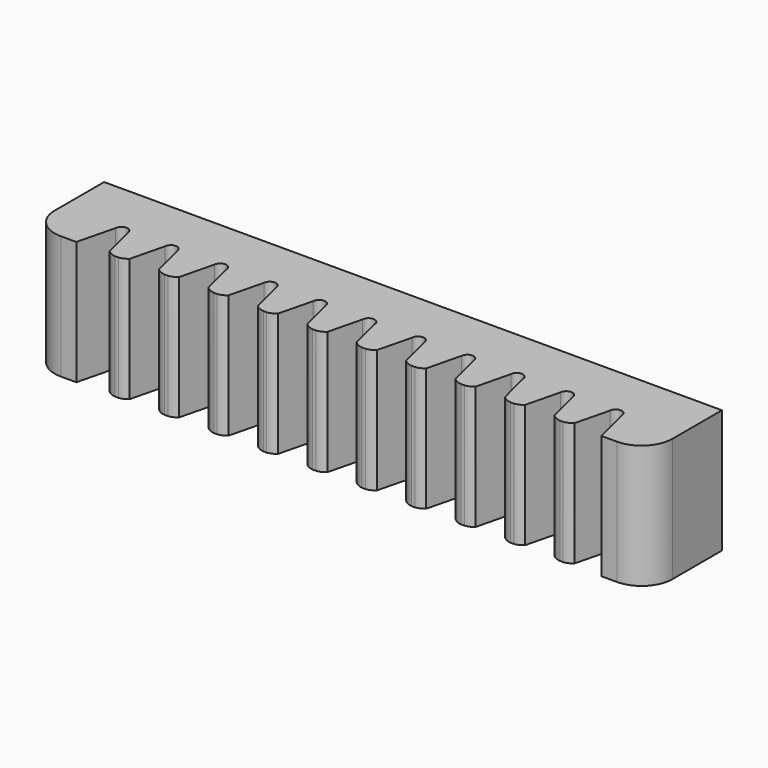
from build123d import *

# Parameters (mm, degrees)
F0_W     = 100
F0_H     = 20
F1_DEPTH = 15
F3_DEPTH = 20
F4_R     = 5


with BuildPart() as f1:
    # F0 (on Front) → F1 (new body)
    with BuildSketch(Plane.XZ):
        Rectangle(F0_W, F0_H)
    extrude(amount=F1_DEPTH)

    # F2 (on face) → F3 (cut, through all)
    with BuildSketch(Plane.XY.offset(10)):
        with BuildLine():
            Line((-37.5, -15), (-37.673208, -14.301388))
            Line((-37.673208, -14.301388), (-39.001597, -8.943505))
            ThreePointArc((-39.001597, -8.943505), (-40, -8), (-40.998403, -8.943505))
            Line((-40.998403, -8.943505), (-42.5, -15))
            Line((-42.5, -15), (-37.5, -15))
        make_face()
        with BuildLine():
            Line((-29.5, -15), (-29.673208, -14.301388))
            Line((-29.673208, -14.301388), (-31.001597, -8.943505))
            ThreePointArc((-31.001597, -8.943505), (-32, -8), (-32.998403, -8.943505))
            Line((-32.998403, -8.943505), (-34.348484, -14.388879))
            Line((-34.348484, -14.388879), (-34.5, -15))
            Line((-34.5, -15), (-29.5, -15))
        make_face()
        with BuildLine():
            Line((-21.5, -15), (-21.673208, -14.301388))
            Line((-21.673208, -14.301388), (-23.001597, -8.943505))
            ThreePointArc((-23.001597, -8.943505), (-24, -8), (-24.998403, -8.943505))
            Line((-24.998403, -8.943505), (-26.348484, -14.388879))
            Line((-26.348484, -14.388879), (-26.5, -15))
            Line((-26.5, -15), (-21.5, -15))
        make_face()
        with BuildLine():
            Line((-13.5, -15), (-13.673208, -14.301388))
            Line((-13.673208, -14.301388), (-15.001597, -8.943505))
            ThreePointArc((-15.001597, -8.943505), (-16, -8), (-16.998403, -8.943505))
            Line((-16.998403, -8.943505), (-18.348484, -14.388879))
            Line((-18.348484, -14.388879), (-18.5, -15))
            Line((-18.5, -15), (-13.5, -15))
        make_face()
        with BuildLine():
            Line((-5.5, -15), (-5.673208, -14.301388))
            Line((-5.673208, -14.301388), (-7.001597, -8.943505))
            ThreePointArc((-7.001597, -8.943505), (-8, -8), (-8.998403, -8.943505))
            Line((-8.998403, -8.943505), (-10.348484, -14.388879))
            Line((-10.348484, -14.388879), (-10.5, -15))
            Line((-10.5, -15), (-5.5, -15))
        make_face()
        with BuildLine():
            Line((2.326792, -14.301388), (0.998403, -8.943505))
            ThreePointArc((0.998403, -8.943505), (0, -8), (-0.998403, -8.943505))
            Line((-0.998403, -8.943505), (-2.348484, -14.388879))
            Line((-2.348484, -14.388879), (-2.5, -15))
            Line((-2.5, -15), (2.5, -15))
            Line((2.5, -15), (2.326792, -14.301388))
        make_face()
        with BuildLine():
            Line((7.001597, -8.943505), (5.651516, -14.388879))
            Line((5.651516, -14.388879), (5.5, -15))
            Line((5.5, -15), (10.5, -15))
            Line((10.5, -15), (10.326792, -14.301388))
            Line((10.326792, -14.301388), (8.998403, -8.943505))
            ThreePointArc((8.998403, -8.943505), (8, -8), (7.001597, -8.943505))
        make_face()
        with BuildLine():
            Line((15.001597, -8.943505), (13.651516, -14.388879))
            Line((13.651516, -14.388879), (13.5, -15))
            Line((13.5, -15), (18.5, -15))
            Line((18.5, -15), (18.326792, -14.301388))
            Line((18.326792, -14.301388), (16.998403, -8.943505))
            ThreePointArc((16.998403, -8.943505), (16, -8), (15.001597, -8.943505))
        make_face()
        with BuildLine():
            Line((23.001597, -8.943505), (21.651516, -14.388879))
            Line((21.651516, -14.388879), (21.5, -15))
            Line((21.5, -15), (26.5, -15))
            Line((26.5, -15), (26.326792, -14.301388))
            Line((26.326792, -14.301388), (24.998403, -8.943505))
            ThreePointArc((24.998403, -8.943505), (24, -8), (23.001597, -8.943505))
        make_face()
        with BuildLine():
            Line((31.001597, -8.943505), (29.651516, -14.388879))
            Line((29.651516, -14.388879), (29.5, -15))
            Line((29.5, -15), (34.5, -15))
            Line((34.5, -15), (34.326792, -14.301388))
            Line((34.326792, -14.301388), (32.998403, -8.943505))
            ThreePointArc((32.998403, -8.943505), (32, -8), (31.001597, -8.943505))
        make_face()
        with BuildLine():
            Line((39.001597, -8.943505), (37.651516, -14.388879))
            Line((37.651516, -14.388879), (37.5, -15))
            Line((37.5, -15), (42.5, -15))
            Line((42.5, -15), (40.998403, -8.943505))
            ThreePointArc((40.998403, -8.943505), (40, -8), (39.001597, -8.943505))
        make_face()
        with BuildLine():
            ThreePointArc((13.651516, -14.388879), (13.026891, -14.800623), (12.305824, -15))
            Line((12.305824, -15), (13.5, -15))
            Line((13.5, -15), (13.651516, -14.388879))
        make_face()
        with BuildLine():
            Line((10.326792, -14.301388), (10.5, -15))
            Line((10.5, -15), (11.763503, -15))
            ThreePointArc((11.763503, -15), (10.985304, -14.773765), (10.326792, -14.301388))
        make_face()
        with BuildLine():
            Line((18.326792, -14.301388), (18.5, -15))
            Line((18.5, -15), (19.763503, -15))
            ThreePointArc((19.763503, -15), (18.985304, -14.773765), (18.326792, -14.301388))
        make_face()
        with BuildLine():
            ThreePointArc((21.651516, -14.388879), (21.026891, -14.800623), (20.305824, -15))
            Line((20.305824, -15), (21.5, -15))
            Line((21.5, -15), (21.651516, -14.388879))
        make_face()
        with BuildLine():
            Line((26.326792, -14.301388), (26.5, -15))
            Line((26.5, -15), (27.763503, -15))
            ThreePointArc((27.763503, -15), (26.985304, -14.773765), (26.326792, -14.301388))
        make_face()
        with BuildLine():
            ThreePointArc((29.651516, -14.388879), (29.026891, -14.800623), (28.305824, -15))
            Line((28.305824, -15), (29.5, -15))
            Line((29.5, -15), (29.651516, -14.388879))
        make_face()
        with BuildLine():
            Line((34.326792, -14.301388), (34.5, -15))
            Line((34.5, -15), (35.763503, -15))
            ThreePointArc((35.763503, -15), (34.985304, -14.773765), (34.326792, -14.301388))
        make_face()
        with BuildLine():
            ThreePointArc((37.651516, -14.388879), (37.026891, -14.800623), (36.305824, -15))
            Line((36.305824, -15), (37.5, -15))
            Line((37.5, -15), (37.651516, -14.388879))
        make_face()
        with BuildLine():
            ThreePointArc((5.651516, -14.388879), (5.026891, -14.800623), (4.305824, -15))
            Line((4.305824, -15), (5.5, -15))
            Line((5.5, -15), (5.651516, -14.388879))
        make_face()
        with BuildLine():
            ThreePointArc((3.763503, -15), (2.985304, -14.773765), (2.326792, -14.301388))
            Line((2.326792, -14.301388), (2.5, -15))
            Line((2.5, -15), (3.763503, -15))
        make_face()
        with BuildLine():
            Line((-2.5, -15), (-2.348484, -14.388879))
            ThreePointArc((-2.348484, -14.388879), (-2.973109, -14.800623), (-3.694176, -15))
            Line((-3.694176, -15), (-2.5, -15))
        make_face()
        with BuildLine():
            Line((-5.5, -15), (-4.236497, -15))
            ThreePointArc((-4.236497, -15), (-5.014696, -14.773765), (-5.673208, -14.301388))
            Line((-5.673208, -14.301388), (-5.5, -15))
        make_face()
        with BuildLine():
            Line((-11.694176, -15), (-10.5, -15))
            Line((-10.5, -15), (-10.348484, -14.388879))
            ThreePointArc((-10.348484, -14.388879), (-10.973109, -14.800623), (-11.694176, -15))
        make_face()
        with BuildLine():
            Line((-13.5, -15), (-12.236497, -15))
            ThreePointArc((-12.236497, -15), (-13.014696, -14.773765), (-13.673208, -14.301388))
            Line((-13.673208, -14.301388), (-13.5, -15))
        make_face()
        with BuildLine():
            Line((-19.694176, -15), (-18.5, -15))
            Line((-18.5, -15), (-18.348484, -14.388879))
            ThreePointArc((-18.348484, -14.388879), (-18.973109, -14.800623), (-19.694176, -15))
        make_face()
        with BuildLine():
            Line((-21.5, -15), (-20.236497, -15))
            ThreePointArc((-20.236497, -15), (-21.014696, -14.773765), (-21.673208, -14.301388))
            Line((-21.673208, -14.301388), (-21.5, -15))
        make_face()
        with BuildLine():
            Line((-27.694176, -15), (-26.5, -15))
            Line((-26.5, -15), (-26.348484, -14.388879))
            ThreePointArc((-26.348484, -14.388879), (-26.973109, -14.800623), (-27.694176, -15))
        make_face()
        with BuildLine():
            Line((-29.5, -15), (-28.236497, -15))
            ThreePointArc((-28.236497, -15), (-29.014696, -14.773765), (-29.673208, -14.301388))
            Line((-29.673208, -14.301388), (-29.5, -15))
        make_face()
        with BuildLine():
            Line((-35.694176, -15), (-34.5, -15))
            Line((-34.5, -15), (-34.348484, -14.388879))
            ThreePointArc((-34.348484, -14.388879), (-34.973109, -14.800623), (-35.694176, -15))
        make_face()
        with BuildLine():
            Line((-37.5, -15), (-36.236497, -15))
            ThreePointArc((-36.236497, -15), (-37.014696, -14.773765), (-37.673208, -14.301388))
            Line((-37.673208, -14.301388), (-37.5, -15))
        make_face()
    extrude(amount=-F3_DEPTH, mode=Mode.SUBTRACT)

    # F4
    f4_edges = [f1.edges().sort_by_distance(p)[0] for p in [
        (-50, -15, 0),
        (50, -15, 0),
    ]]
    fillet(f4_edges, radius=F4_R)


solid = f1.part
